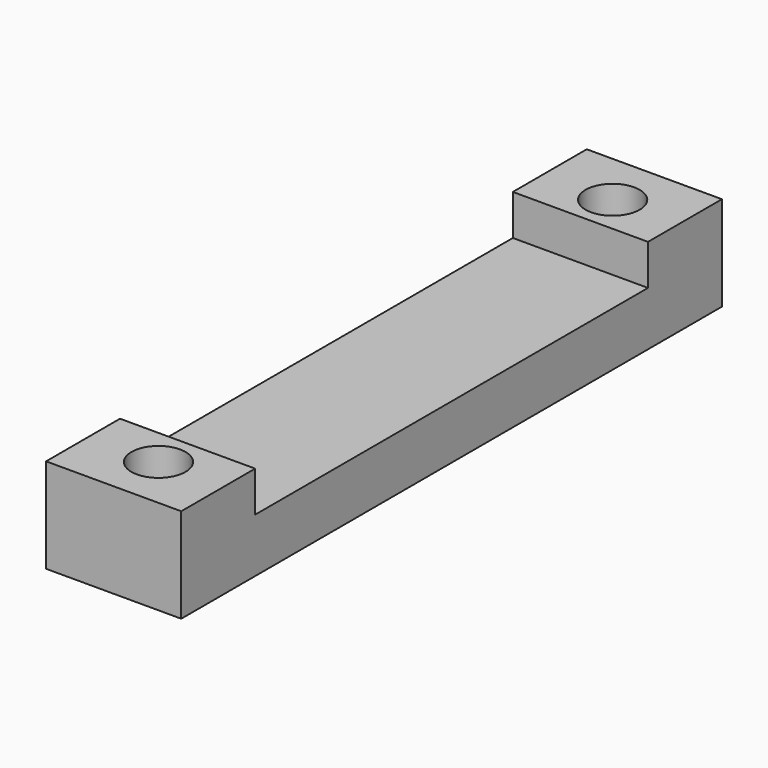
from build123d import *

# Parameters (mm, degrees)
F0_W     = 10
F0_H     = 50
F1_DEPTH = 4
F2_W     = 10
F2_H     = 6.834782
F3_DEPTH = 3
F5_D     = 4


with BuildPart() as f1:
    # F0 (on Top) → F1 (new body)
    with BuildSketch(Plane.XY):
        with Locations((-15.227972, 0)):
            Rectangle(F0_W, F0_H)
    extrude(amount=F1_DEPTH)

    # F2 (on face) → F3 (join)
    with BuildSketch(Plane.XY.offset(4)):
        with Locations((-15.227972, 21.582609)):
            Rectangle(F2_W, F2_H)
        with Locations((-15.227972, -21.582609)):
            Rectangle(F2_W, F2_H)
    extrude(amount=F3_DEPTH)

    # F5 (through all)
    with Locations(Plane(origin=(0, 0, 0), x_dir=(1, 0, 0), z_dir=(0, 0, -1))):
        with Locations((-15.111843, 21), (-15.111843, -21)):
            Hole(F5_D / 2)


solid = f1.part
